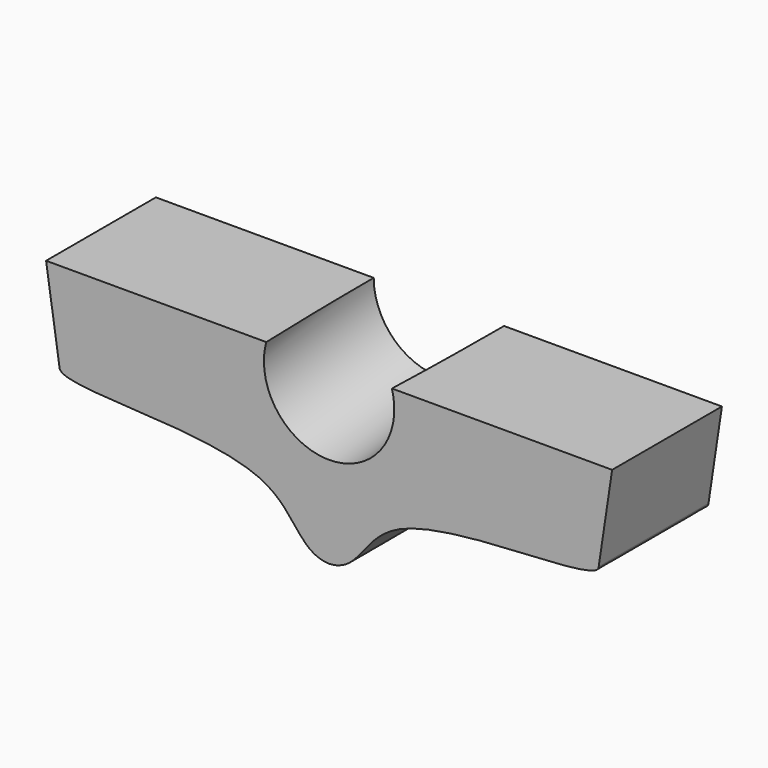
from build123d import *

# Parameters (mm, degrees)
F1_DEPTH = 25.4
F3_R     = 12.065
F4_DEPTH = 76.2


with BuildPart() as f1:
    # F0 (on Front) → F1 (new body)
    with BuildSketch(Plane.XZ):
        with BuildLine():
            Line((52.3875, 0), (-52.3875, 0))
            Line((-52.3875, 0), (-49.8988601972, -16.5985570235))
            add(Edge.make_bspline(
                [(-49.8988601972, -16.5985570235), (-49.8988601972, -19.9378890599), (-6.0647983403, -16.1415340845), (-5.8959199742, -32.0347056309), (0, -32.349884783)],
                knots=[0, 0, 0, 0, 0.6030923859, 1, 1, 1, 1], degree=3))
            add(Edge.make_bspline(
                [(49.8988601972, -16.5985570235), (49.8988601972, -19.9378890599), (6.0647983403, -16.1415340845), (5.8959199742, -32.0347056309), (0, -32.349884783)],
                knots=[0, 0, 0, 0, 0.6030923859, 1, 1, 1, 1], degree=3))
            Line((49.8988601972, -16.5985570235), (52.3875, 0))
        make_face()
    extrude(amount=F1_DEPTH)

    # F3 (on face) → F4 (cut)
    with BuildSketch(Plane(origin=(0, 0, 0), x_dir=(-1, 0, 0), z_dir=(0, 0.9918944426, 0.1270646086))):
        Circle(F3_R)
    extrude(amount=-F4_DEPTH, mode=Mode.SUBTRACT)


solid = f1.part
